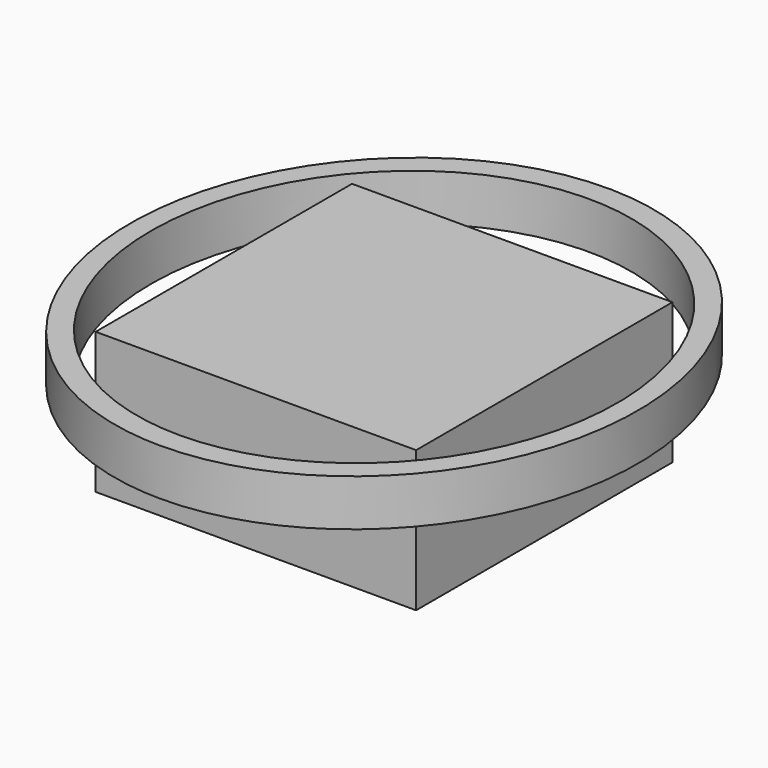
from build123d import *

# Parameters (mm, degrees)
F0_W     = 50.8
F0_H     = 50.8
F1_DEPTH = 22.352
F3_DEPTH = 7.4


with BuildPart() as f1:
    # F0 (on Top) → F1 (new body)
    with BuildSketch(Plane.XY):
        Rectangle(F0_W, F0_H)
    extrude(amount=F1_DEPTH)


with BuildPart() as f3:
    # F2 (on face) → F3 (new body)
    with BuildSketch(Plane.XY.offset(22.352)):
        with BuildLine():
            add(Edge.make_bspline(
                [(0, -44.250004), (69.658674, -44.250004), (34.829337, 22.125002), (0, 88.500008), (-34.829337, 22.125002), (-69.658674, -44.250004), (0, -44.250004)],
                knots=[0, 0, 0, 2.094395, 2.094395, 4.18879, 4.18879, 6.283185, 6.283185, 6.283185], degree=2, weights=[1, 0.5, 1, 0.5, 1, 0.5, 1]))
        make_face()
        with BuildLine():
            add(Edge.make_bspline(
                [(0, -40.568184), (64.001541, -40.568184), (32.000771, 20.284092), (0, 81.136368), (-32.000771, 20.284092), (-64.001541, -40.568184), (0, -40.568184)],
                knots=[0, 0, 0, 2.094395, 2.094395, 4.18879, 4.18879, 6.283185, 6.283185, 6.283185], degree=2, weights=[1, 0.5, 1, 0.5, 1, 0.5, 1]))
        make_face(mode=Mode.SUBTRACT)
    extrude(amount=-F3_DEPTH)


solid = Compound([f1.part, f3.part])
